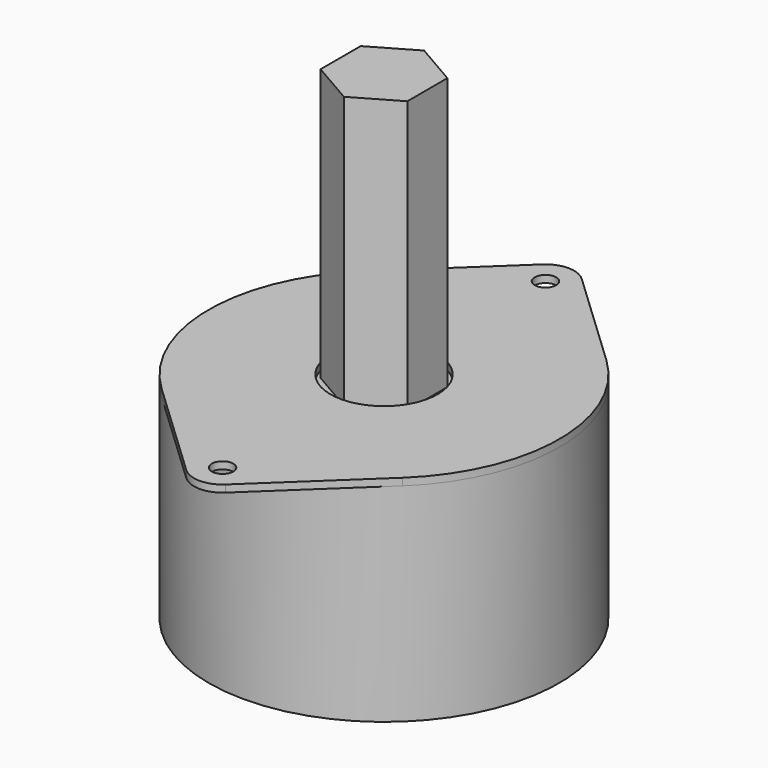
from build123d import *

# Parameters (mm, degrees)
SKETCH033_R             = 24.5
PAD011_DEPTH            = 29
SKETCH034_R             = 7.5
SKETCH034_R_2           = 1.5
PAD012_DEPTH            = 1
PAD013_DEPTH            = 38
BODY012_PLACEMENT_ANGLE = 90


with BuildPart() as part:
    # Sketch033 → Pad011 (new body)
    with BuildSketch(Plane.XY):
        Circle(SKETCH033_R)
    extrude(amount=-PAD011_DEPTH)

    # Sketch034 (on Face2 of Pad011) → Pad012 (join)
    with BuildSketch(Plane.XY):
        with BuildLine():
            Line((-31.107801, 2.74676), (-17.810284, 16.823905))
            ThreePointArc((17.810283, 16.823906), (-1e-06, 24.5), (-17.810284, 16.823905))
            Line((17.810283, 16.823906), (31.107801, 2.74676))
            ThreePointArc((31.107801, -2.74676), (32.2, 0), (31.107801, 2.74676))
            Line((17.810284, -16.823905), (31.107801, -2.74676))
            ThreePointArc((-17.810283, -16.823906), (1e-06, -24.5), (17.810284, -16.823905))
            Line((-31.107801, -2.74676), (-17.810283, -16.823906))
            ThreePointArc((-31.107801, 2.74676), (-32.2, 0), (-31.107801, -2.74676))
        make_face()
        Circle(SKETCH034_R, mode=Mode.SUBTRACT)
        with Locations((-28.2, 0)):
            Circle(SKETCH034_R_2, mode=Mode.SUBTRACT)
        with Locations((28.2, 0)):
            Circle(SKETCH034_R_2, mode=Mode.SUBTRACT)
    extrude(amount=PAD012_DEPTH)

    # Sketch035 (on Face17 of Pad012) → Pad013 (join)
    with BuildSketch(Plane.XY):
        Polygon((3.5, -6.062178), (7, 0), (3.5, 6.062178), (-3.5, 6.062178), (-7, 0), (-3.5, -6.062178), align=None)
    extrude(amount=PAD013_DEPTH)


with BuildPart() as part_1:
    # Body012 placement: moved
    add(part.part.moved(Location((48, 100, 48.5))).rotate(Axis((48, 100, 48.5), (0, 0, -1)), BODY012_PLACEMENT_ANGLE))


solid = part_1.part
